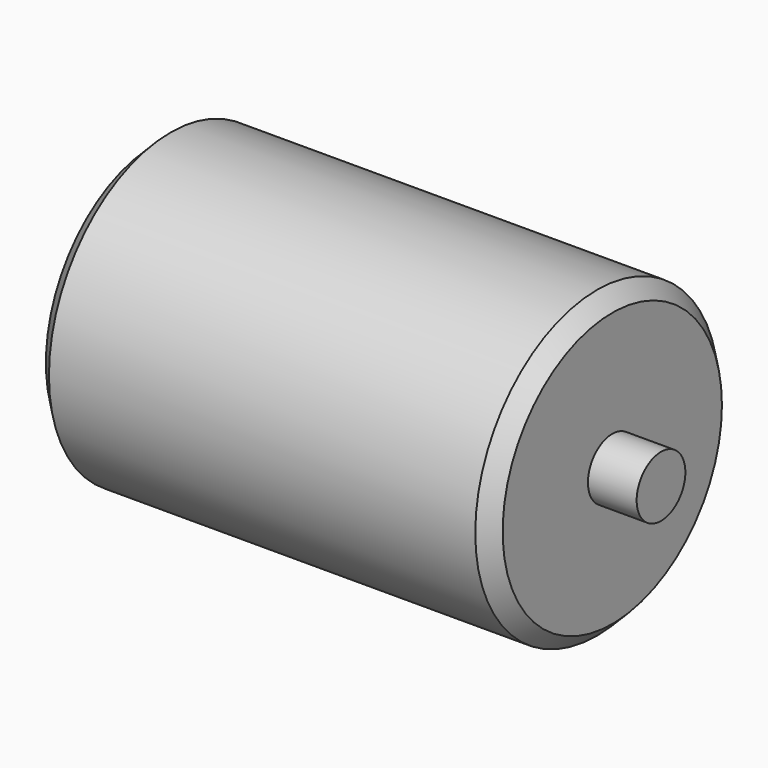
from build123d import *

# Parameters (mm, degrees)
F0_W    = 16
F0_H    = 10
F2_SIZE = 5


with BuildPart() as f1:
    # F0 (on Top) → F1 (revolve)
    with BuildSketch(Plane.XY):
        with Locations((-83, 5)):
            Rectangle(F0_W, F0_H)
        Polygon((-75, 0), (75, 0), (75, 10), (75, 50), (-75, 50), (-75, 10), align=None)
        with Locations((83, 5)):
            Rectangle(F0_W, F0_H)
    revolve(axis=Axis((0, 0, 0), (-1, 0, 0)))

    # F2
    f2_edges = [f1.edges().sort_by_distance(p)[0] for p in [
        (-75, -50, 0),
        (75, -50, 0),
    ]]
    chamfer(f2_edges, length=F2_SIZE)


solid = f1.part
